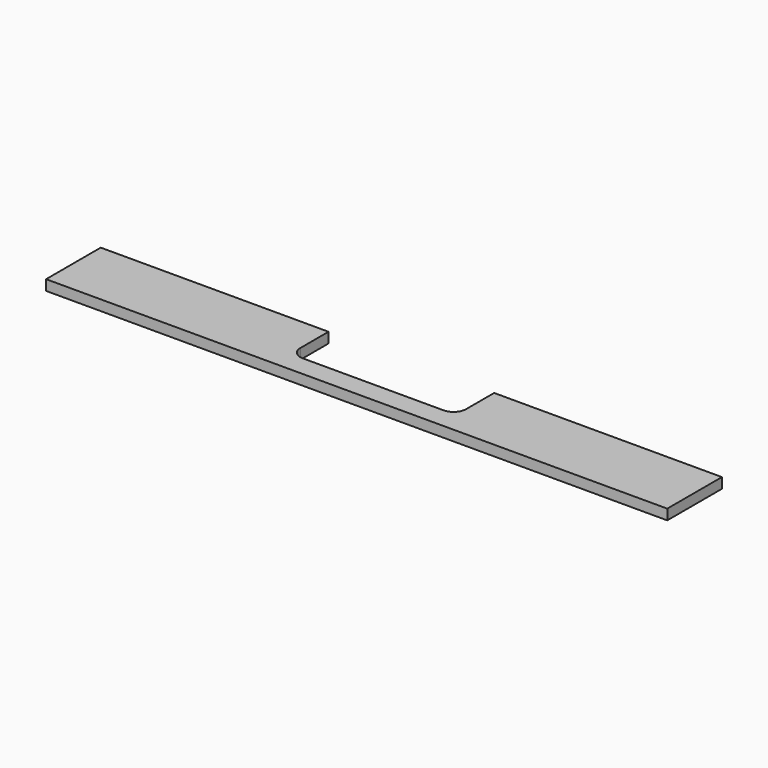
from build123d import *

# Parameters (mm, degrees)
F0_W     = 1500
F0_H     = 165
F1_DEPTH = 25
F3_DEPTH = 25


with BuildPart() as f1:
    # F0 (on Top) → F1 (new body)
    with BuildSketch(Plane.XY):
        Rectangle(F0_W, F0_H)
    extrude(amount=F1_DEPTH)

    # F2 (on face) → F3 (cut, through all)
    with BuildSketch(Plane.XY.offset(25)):
        with BuildLine():
            Line((200, 82.5), (-200, 82.5))
            Line((-200, 82.5), (-200, -2.5))
            ThreePointArc((-200, -2.5), (-191.213203, -23.713203), (-170, -32.5))
            Line((-170, -32.5), (0, -32.5))
            Line((0, -32.5), (170, -32.5))
            ThreePointArc((170, -32.5), (191.213203, -23.713203), (200, -2.5))
            Line((200, -2.5), (200, 82.5))
        make_face()
    extrude(amount=-F3_DEPTH, mode=Mode.SUBTRACT)


solid = f1.part
